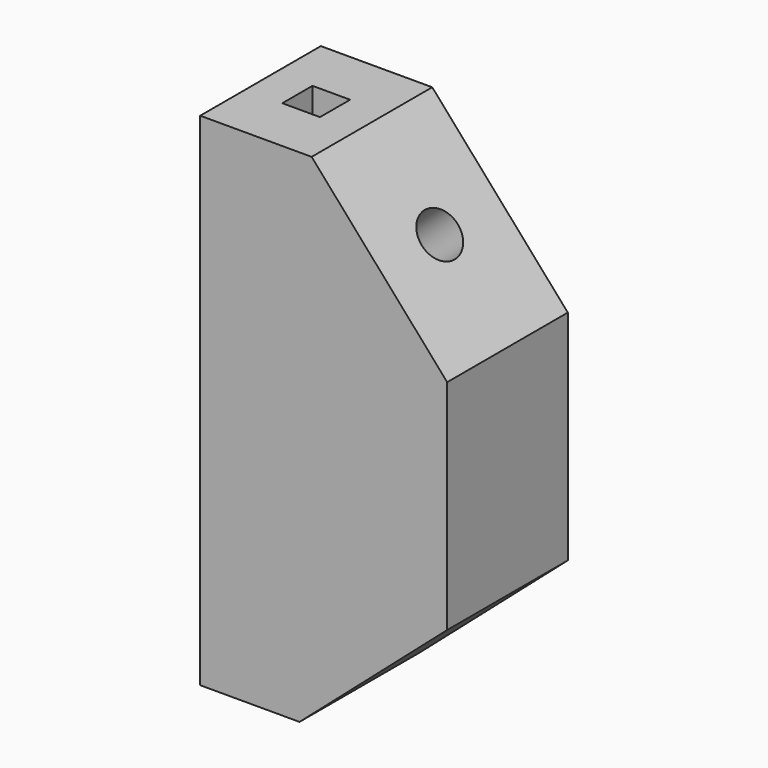
from build123d import *

# Parameters (mm, degrees)
F1_DEPTH = 25.4
F2_R     = 3.81
F3_DEPTH = 69.8653654545
F4_W     = 3.175
F4_H     = 3.175
F5_DEPTH = 84.483178092


with BuildPart() as f1:
    # F0 (on Front) → F1 (new body)
    with BuildSketch(Plane.XZ):
        Polygon((0, 45.3323423862), (0, 0), (0, -39.1498357058), (16.7319830507, -39.1498357058), (41.6124537587, -17.4258463085), (41.6124537587, 19.3378273398), (18.7744107097, 45.3323423862), align=None)
    extrude(amount=F1_DEPTH)

    # F2 (on face) → F3 (cut, through all)
    with BuildSketch(Plane(origin=(33.0732626697, 0, 29.057229776), x_dir=(0, 1, 0), z_dir=(0.7512454532, 0, 0.6600229306))):
        with Locations((-12.7, 4.3632278543)):
            Circle(F2_R)
    extrude(amount=-F3_DEPTH, mode=Mode.SUBTRACT)

    # F4 (on face) → F5 (cut, through all)
    with BuildSketch(Plane.XY.offset(45.3323423862)):
        with Locations((7.7997053549, -14.2875)):
            Rectangle(F4_W, F4_H)
        with Locations((7.7997053549, -11.1125)):
            Rectangle(F4_W, F4_H)
        with Locations((10.9747053549, -11.1125)):
            Rectangle(F4_W, F4_H)
        with Locations((10.9747053549, -14.2875)):
            Rectangle(F4_W, F4_H)
    extrude(amount=-F5_DEPTH, mode=Mode.SUBTRACT)


solid = f1.part
